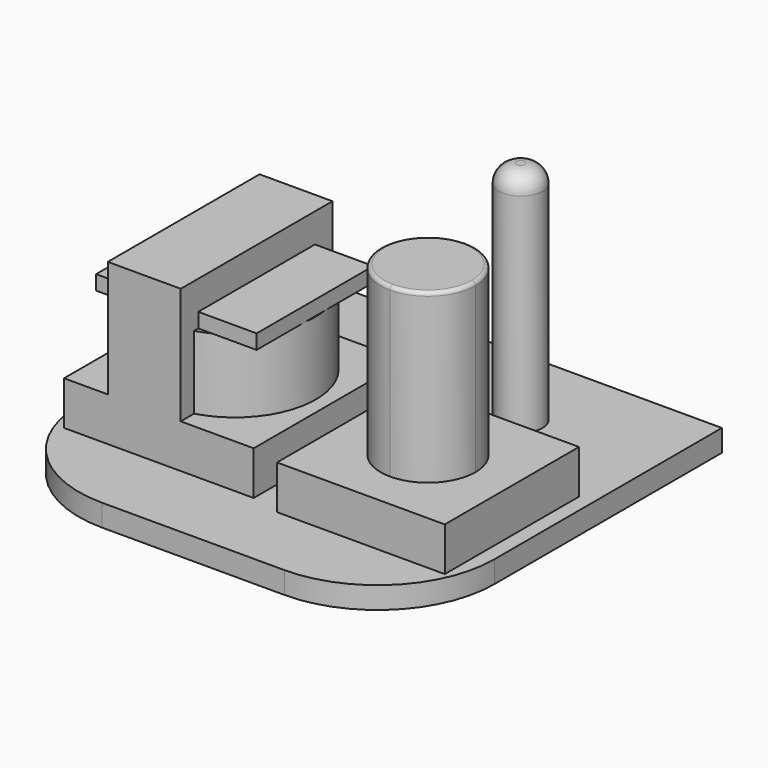
from build123d import *

# Parameters (mm, degrees)
F0_W           = 28.5
F0_H           = 27.5
F1_DEPTH       = 1.5
F2_R           = 8
F3_R           = 1.5
F4_DEPTH       = 15.5
F5_W           = 11.5
F5_H           = 11.5
F6_DEPTH       = 3
F8_DEPTH       = 11.5
F9_R           = 1.2194434125
F10_R          = 0.25
F11_W          = 13
F11_H          = 13
F11_R          = 5.5650544151
F12_DEPTH      = 3
F13_DEPTH      = 8
F14_W          = 5
F14_H          = 13
F15_DEPTH      = 8
F15_DEPTH_BACK = 3
F16_W          = 11
F16_H          = 10
F17_DEPTH      = 1


with BuildPart() as f1:
    # F0 (on Top) → F1 (new body)
    with BuildSketch(Plane.XY):
        Rectangle(F0_W, F0_H)
    extrude(amount=F1_DEPTH)

    # F2
    f2_edges = [f1.edges().sort_by_distance(p)[0] for p in [
        (14.25, -13.75, 0.75),
        (-14.25, -13.75, 0.75),
    ]]
    fillet(f2_edges, radius=F2_R)

    # F3 (on face) → F4 (join)
    with BuildSketch(Plane.XY.offset(1.5)):
        with Locations((5.25, 7.75)):
            Circle(F3_R)
    extrude(amount=F4_DEPTH)

    # F5 (on face) → F6 (join)
    with BuildSketch(Plane.XY.offset(1.5)):
        with Locations((7.5, -3)):
            Rectangle(F5_W, F5_H)
    extrude(amount=F6_DEPTH)

    # F7 (on face) → F8 (join)
    with BuildSketch(Plane.XY.offset(4.5)):
        with BuildLine():
            ThreePointArc((10.75, -3), (9.7980970389, -0.7019029611), (7.5, 0.25))
            Line((7.5, 0.25), (7.5, -6.25))
            ThreePointArc((7.5, -6.25), (9.7980970389, -5.2980970389), (10.75, -3))
        make_face()
        with BuildLine():
            Line((7.5, -6.25), (7.5, 0.25))
            ThreePointArc((7.5, 0.25), (4.25, -3), (7.5, -6.25))
        make_face()
    extrude(amount=F8_DEPTH)

    # F9
    f9_edges = [f1.edges().sort_by_distance(p)[0] for p in [
        (3.75, 7.75, 17),
    ]]
    fillet(f9_edges, radius=F9_R)

    # F10
    f10_edges = [f1.edges().sort_by_distance(p)[0] for p in [
        (4.25, -3, 16),
    ]]
    fillet(f10_edges, radius=F10_R)

    # F11 (on face) → F12 (join)
    with BuildSketch(Plane.XY.offset(1.5)):
        with Locations((-6.75, -1.75)):
            Rectangle(F11_W, F11_H)
        with Locations((-6.75, -1.75)):
            Circle(F11_R, mode=Mode.SUBTRACT)
    extrude(amount=F12_DEPTH)

    # F13 (add): a face of the model
    f13_faces = [f1.faces().sort_by_distance(p)[0] for p in [
        (-6.75, -1.75, 1.5),
    ]]
    extrude(f13_faces, amount=F13_DEPTH)

    # F14 (on face) → F15 (join, two sides)
    with BuildSketch(Plane.XY.offset(9.5)) as f15_sk:
        with Locations((-7.75, -1.75)):
            Rectangle(F14_W, F14_H)
    extrude(amount=-F15_DEPTH)
    extrude(f15_sk.sketch, amount=F15_DEPTH_BACK)

    # F16 (on face) → F17 (join)
    with BuildSketch(Plane.XY.offset(9.5)):
        with Locations((-6.75, -1.75)):
            Rectangle(F16_W, F16_H)
    extrude(amount=F17_DEPTH)


solid = f1.part
